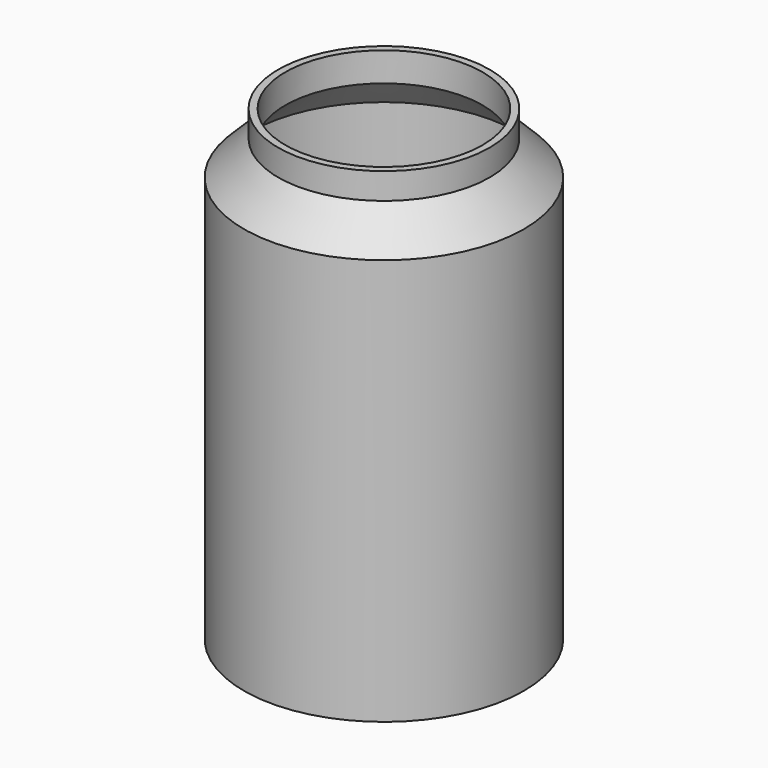
from build123d import *


with BuildPart() as f1:
    # F0 (on Front) → F1 (revolve)
    with BuildSketch(Plane.XZ):
        with BuildLine():
            Line((0, 1.016), (0, 0))
            ThreePointArc((0, 0), (0.750537, 0.56621), (1.501074, 0))
            Line((1.501074, 0), (1.905, 0))
            ThreePointArc((1.905, 0), (2.655537, 0.56621), (3.406074, 0))
            Line((3.406074, 0), (3.81, 0))
            ThreePointArc((3.81, 0), (4.560537, 0.56621), (5.311074, 0))
            Line((5.311074, 0), (5.715, 0))
            ThreePointArc((5.715, 0), (6.465537, 0.56621), (7.216074, 0))
            Line((7.216074, 0), (7.62, 0))
            ThreePointArc((7.62, 0), (8.370537, 0.56621), (9.121074, 0))
            Line((9.121074, 0), (9.525, 0))
            ThreePointArc((9.525, 0), (10.275537, 0.56621), (11.026074, 0))
            Line((11.026074, 0), (11.43, 0))
            ThreePointArc((11.43, 0), (12.180537, 0.56621), (12.931074, 0))
            Line((12.931074, 0), (13.335, 0))
            ThreePointArc((13.335, 0), (14.085537, 0.56621), (14.836074, 0))
            Line((14.836074, 0), (15.24, 0))
            ThreePointArc((15.24, 0), (15.990537, 0.56621), (16.741074, 0))
            Line((16.741074, 0), (17.145, 0))
            ThreePointArc((17.145, 0), (17.895537, 0.56621), (18.646074, 0))
            Line((18.646074, 0), (20.176234, 0))
            Line((20.176234, 0), (20.176234, 58.563381))
            Line((20.176234, 58.563381), (15.24, 63.515246))
            Line((15.24, 63.515246), (15.24, 67.294307))
            Line((15.24, 67.294307), (14.224, 67.294307))
            Line((14.224, 67.294307), (14.224, 63.095345))
            Line((14.224, 63.095345), (19.160234, 58.143481))
            Line((19.160234, 58.143481), (19.160234, 1.016))
            Line((19.160234, 1.016), (15.24, 1.016))
            Line((15.24, 1.016), (0, 1.016))
        make_face()
    revolve(axis=Axis((0, 0, 49.903631), (0, 0, 1)))


solid = f1.part
